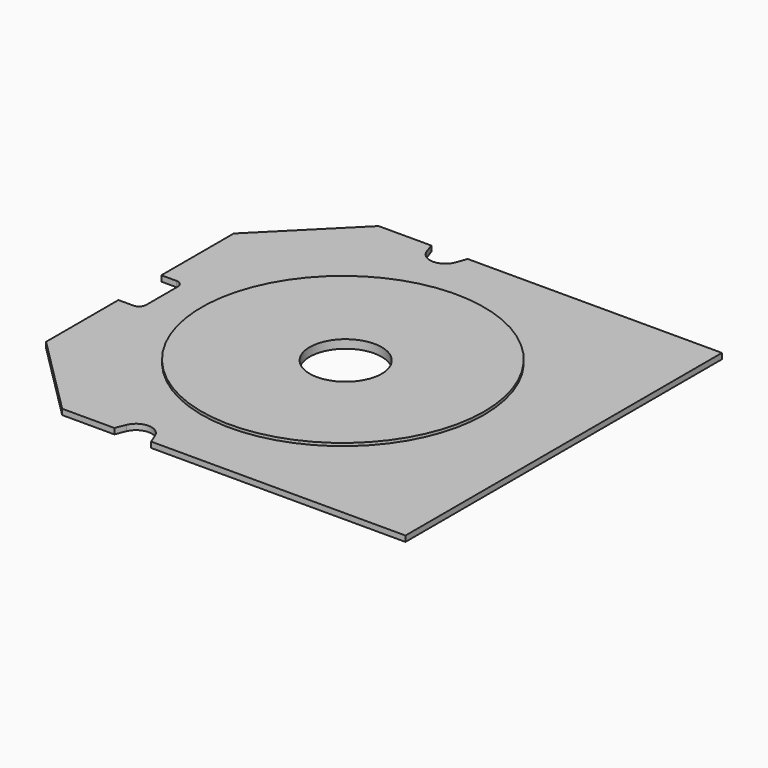
from build123d import *

# Parameters (mm, degrees)
F0_W      = 150
F0_H      = 140
F1_DEPTH  = 2
F3_DEPTH  = 2.001
F5_DEPTH  = 2.001
F7_DEPTH  = 2.001
F8_R      = 50
F9_DEPTH  = 1
F10_R     = 12.75
F11_DEPTH = 25


with BuildPart() as f1:
    # F0 (on Top) → F1 (new body)
    with BuildSketch(Plane.XY):
        Rectangle(F0_W, F0_H)
    extrude(amount=F1_DEPTH)

    # F2 (on face) → F3 (cut, through all)
    with BuildSketch(Plane.XY.offset(2)):
        Polygon((-75, 70), (-75, 41.5), (-46.5, 70), align=None)
        Polygon((-46.5, -70), (-75, -41.5), (-75, -70), align=None)
    extrude(amount=-F3_DEPTH, mode=Mode.SUBTRACT)

    # F4 (on face) → F5 (cut, through all)
    with BuildSketch(Plane.XY.offset(2)):
        with BuildLine():
            Line((-69.68, 9.5), (-75, 9.5))
            Line((-75, 9.5), (-75, -9.5))
            Line((-75, -9.5), (-69.68, -9.5))
            ThreePointArc((-69.68, -9.5), (-67.912233, -8.767767), (-67.18, -7))
            Line((-67.18, -7), (-67.18, 7))
            ThreePointArc((-67.18, 7), (-67.912233, 8.767767), (-69.68, 9.5))
        make_face()
    extrude(amount=-F5_DEPTH, mode=Mode.SUBTRACT)

    # F6 (on face) → F7 (cut, through all)
    with BuildSketch(Plane.XY.offset(2)):
        with BuildLine():
            Line((-28.031671, -70), (-15, -70))
            Line((-15, -70), (-16.416769, -66.495551))
            ThreePointArc((-16.416769, -66.495551), (-21.515836, -63.056988), (-26.614902, -66.495551))
            Line((-26.614902, -66.495551), (-28.031671, -70))
        make_face()
        with BuildLine():
            Line((-27.876137, 70), (-26.631231, 66.430881))
            ThreePointArc((-26.631231, 66.430881), (-21.438069, 62.742254), (-16.244907, 66.430881))
            Line((-16.244907, 66.430881), (-15, 70))
            Line((-15, 70), (-27.876137, 70))
        make_face()
    extrude(amount=-F7_DEPTH, mode=Mode.SUBTRACT)

    # F8 (on face) → F9 (join)
    with BuildSketch(Plane.XY.offset(2)):
        with Locations((-3.16, 0)):
            Circle(F8_R)
    extrude(amount=F9_DEPTH)

    # F10 (on face) → F11 (cut)
    with BuildSketch(Plane.XY.offset(3)):
        with Locations((-2.16, 0)):
            Circle(F10_R)
    extrude(amount=-F11_DEPTH, mode=Mode.SUBTRACT)


solid = f1.part
